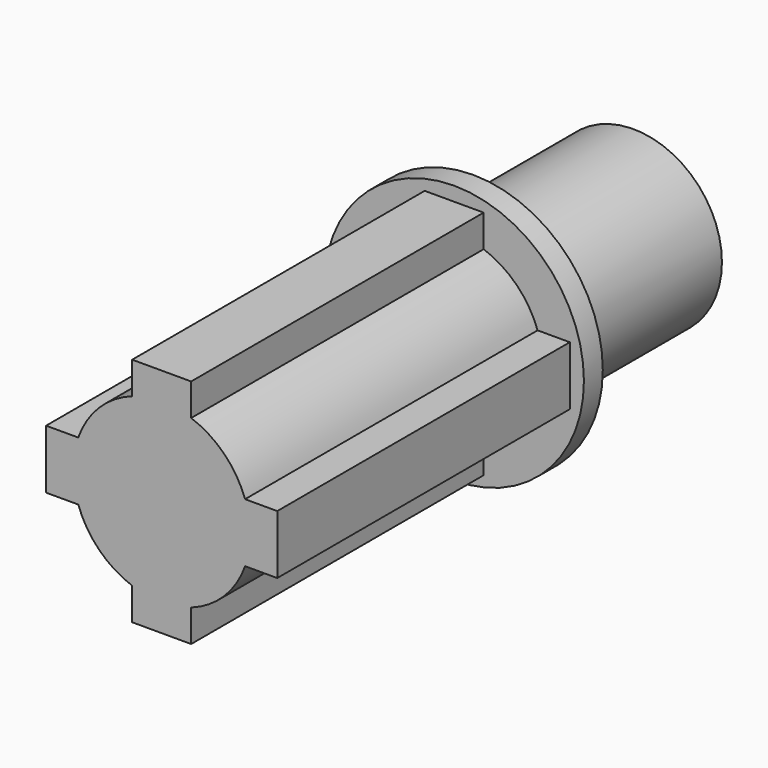
from build123d import *

# Parameters (mm, degrees)
F0_R     = 7.5
F1_DEPTH = 17
F2_R     = 11
F3_DEPTH = 2
F5_DEPTH = 31


with BuildPart() as f1:
    # F0 (on Front) → F1 (new body)
    with BuildSketch(Plane.XZ):
        Circle(F0_R)
    extrude(amount=F1_DEPTH)

    # F2 (on face) → F3 (join)
    with BuildSketch(Plane.XZ.offset(17)):
        Circle(F2_R)
    extrude(amount=F3_DEPTH)


with BuildPart() as f5:
    # F4 (on face) → F5 (new body)
    with BuildSketch(Plane.XZ.offset(19)):
        with BuildLine():
            ThreePointArc((7.070744, -2.500917), (7.391907, -1.268744), (7.5, 0))
            ThreePointArc((7.5, 0), (7.391989, 1.268265), (7.071068, 2.5))
            ThreePointArc((7.071068, 2.5), (5.303645, 5.302957), (2.500917, 7.070744))
            ThreePointArc((2.500917, 7.070744), (0.000486, 7.5), (-2.5, 7.071068))
            ThreePointArc((-2.5, 7.071068), (-5.302957, 5.303645), (-7.070744, 2.500917))
            ThreePointArc((-7.070744, 2.500917), (-7.5, 0.000486), (-7.071068, -2.5))
            ThreePointArc((-7.071068, -2.5), (-5.303645, -5.302957), (-2.500917, -7.070744))
            ThreePointArc((-2.500917, -7.070744), (-0.000486, -7.5), (2.5, -7.071068))
            ThreePointArc((2.5, -7.071068), (5.302957, -5.303645), (7.070744, -2.500917))
        make_face()
        with BuildLine():
            ThreePointArc((7.071068, 2.5), (7.391989, 1.268265), (7.5, 0))
            ThreePointArc((7.5, 0), (7.391907, -1.268744), (7.070744, -2.500917))
            Line((7.070744, -2.500917), (9.799744, -2.5))
            Line((9.799744, -2.5), (9.799744, 0))
            Line((9.799744, 0), (9.799744, 2.5))
            Line((9.799744, 2.5), (7.071068, 2.5))
        make_face()
        with BuildLine():
            ThreePointArc((-2.5, 7.071068), (0.000486, 7.5), (2.500917, 7.070744))
            Line((2.500917, 7.070744), (2.5, 9.799744))
            Line((2.5, 9.799744), (0, 9.799744))
            Line((0, 9.799744), (-2.5, 9.799744))
            Line((-2.5, 9.799744), (-2.5, 7.071068))
        make_face()
        with BuildLine():
            ThreePointArc((-7.071068, -2.5), (-7.5, 0.000486), (-7.070744, 2.500917))
            Line((-7.070744, 2.500917), (-9.799744, 2.5))
            Line((-9.799744, 2.5), (-9.799744, 0))
            Line((-9.799744, 0), (-9.799744, -2.5))
            Line((-9.799744, -2.5), (-7.071068, -2.5))
        make_face()
        with BuildLine():
            Line((2.5, -9.799744), (2.5, -7.071068))
            ThreePointArc((2.5, -7.071068), (-0.000486, -7.5), (-2.500917, -7.070744))
            Line((-2.500917, -7.070744), (-2.5, -9.799744))
            Line((-2.5, -9.799744), (0, -9.799744))
            Line((0, -9.799744), (2.5, -9.799744))
        make_face()
    extrude(amount=F5_DEPTH)


solid = Compound([f1.part, f5.part])
